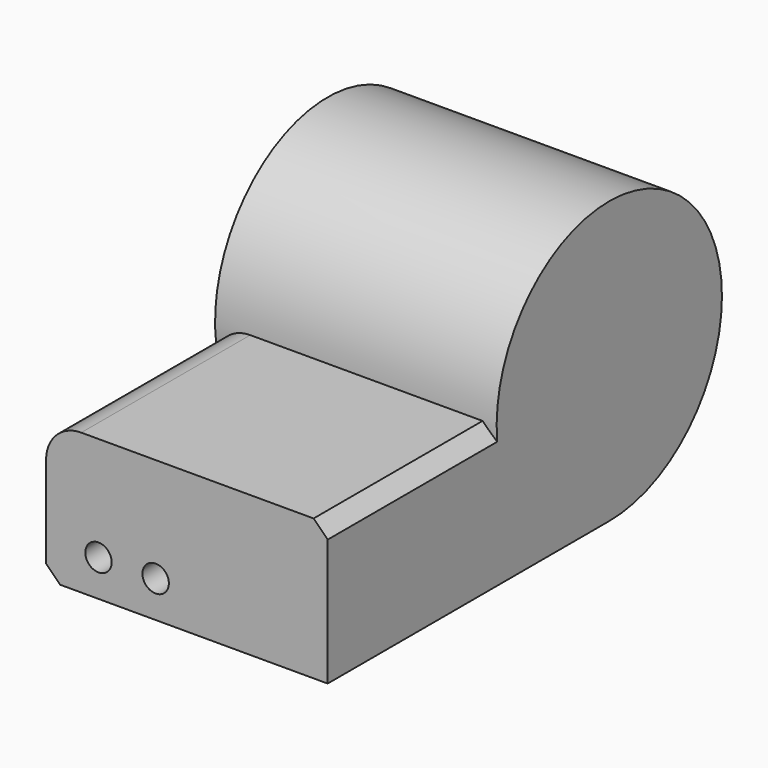
from build123d import *

# Parameters (mm, degrees)
F0_W     = 101.6
F0_H     = 50.8
F1_DEPTH = 127
F2_R     = 4.7625
F3_DEPTH = 158.242
F4_R     = 12.7
F5_SIZE  = 5.08


with BuildPart() as f1:
    # F0 (on Front) → F1 (new body)
    with BuildSketch(Plane.XZ):
        Rectangle(F0_W, F0_H)
    extrude(amount=F1_DEPTH)

    # F2 (on face) → F3 (cut)
    with BuildSketch(Plane(origin=(0, 0, 0), x_dir=(-1, 0, 0), z_dir=(0, 1, 0))):
        with Locations((31.891733, -12.221986)):
            Circle(F2_R)
        with Locations((11.267137, -12.221986)):
            Circle(F2_R)
    extrude(amount=-F3_DEPTH, mode=Mode.SUBTRACT)

    # F4
    f4_edges = [f1.edges().sort_by_distance(p)[0] for p in [
        (-50.8, -63.5, 25.4),
    ]]
    fillet(f4_edges, radius=F4_R)

    # F5
    f5_edges = [f1.edges().sort_by_distance(p)[0] for p in [
        (50.8, -63.5, 25.4),
        (-50.8, -63.5, -25.4),
    ]]
    chamfer(f5_edges, length=F5_SIZE)

    # F0 (on Front) → F6 (revolve)
    with BuildSketch(Plane.XZ):
        Rectangle(F0_W, F0_H)
    revolve(axis=Axis((0, 0, 25.4), (-1, 0, 0)))


solid = f1.part
